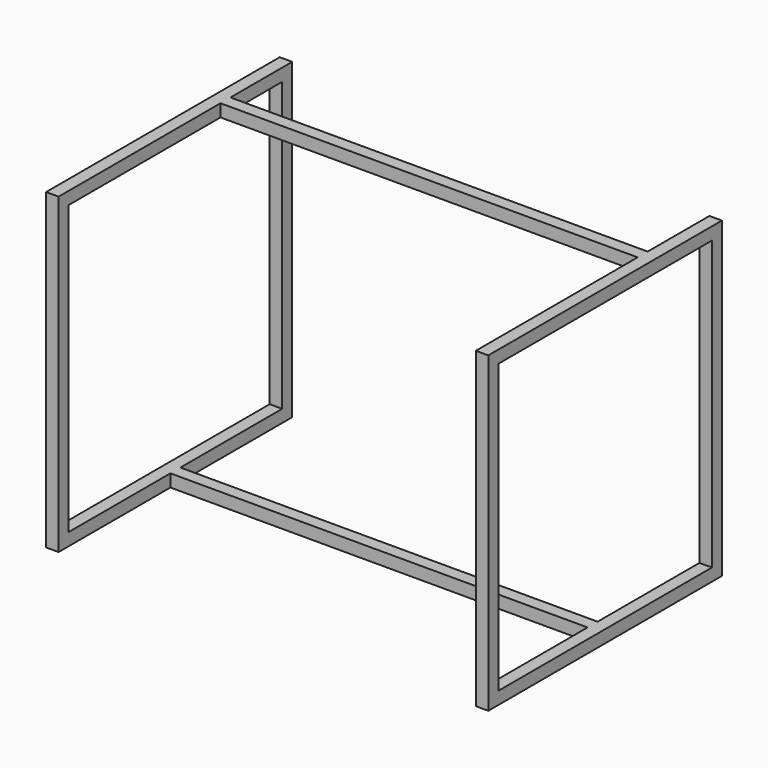
from build123d import *

# Parameters (mm, degrees)
F0_W     = 700
F0_H     = 750
F0_W_2   = 640
F0_H_2   = 690
F1_DEPTH = 30
F2_W     = 30
F2_H     = 30
F3_DEPTH = 500
F6_DEPTH = 1000


with BuildPart() as f1:
    # F0 (on Right) → F1 (new body)
    with BuildSketch(Plane.YZ):
        with Locations((-143.150666, -375)):
            Rectangle(F0_W, F0_H)
        with Locations((-143.150666, -375)):
            Rectangle(F0_W_2, F0_H_2, mode=Mode.SUBTRACT)
    extrude(amount=F1_DEPTH)

    # F2 (on face) → F3 (join)
    with BuildSketch(Plane(origin=(0, 0, 0), x_dir=(0, -1, 0), z_dir=(-1, 0, 0))):
        with Locations((-6.849334, -15)):
            Rectangle(F2_W, F2_H)
    extrude(amount=F3_DEPTH)

    # F4: F1 across face


with BuildPart() as f1_1:
    add(f1.part)
    add(f1.part.mirror(Plane(origin=(-500, 6.849334, -15), x_dir=(0, -1, 0), z_dir=(-1, 0, 0))))

    # F5 (on face) → F6 (join, through all)
    with BuildSketch(Plane(origin=(0, 0, 0), x_dir=(0, -1, 0), z_dir=(-1, 0, 0))):
        Polygon((128.150666, -750), (143.150666, -750), (158.150666, -750), (158.150666, -720), (128.150666, -720), align=None)
    extrude(amount=F6_DEPTH)


solid = f1_1.part
